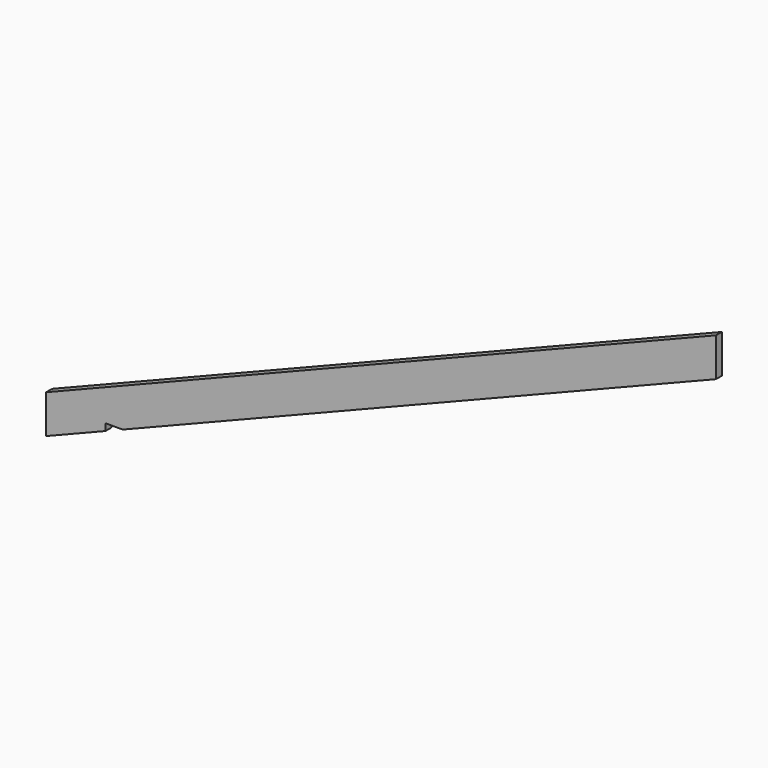
from build123d import *

# Parameters (mm, degrees)
F2_DEPTH = 38.1
F3_SCALE = 0.0114810563


with BuildPart() as f2:
    # F1 (on Front) → F2 (new body)
    with BuildSketch(Plane.XZ):
        Polygon((0, 2863.85), (3048, 4083.05), (3048, 4281.3856198468), (-393.7, 2904.7056198468), (-393.7, 2706.37), (-88.9, 2828.29), (-88.9, 2863.85), align=None)
    extrude(amount=F2_DEPTH)


with BuildPart() as f2_1:
    # F3: moved
    add(f2.part.scale(F3_SCALE))


solid = f2_1.part
